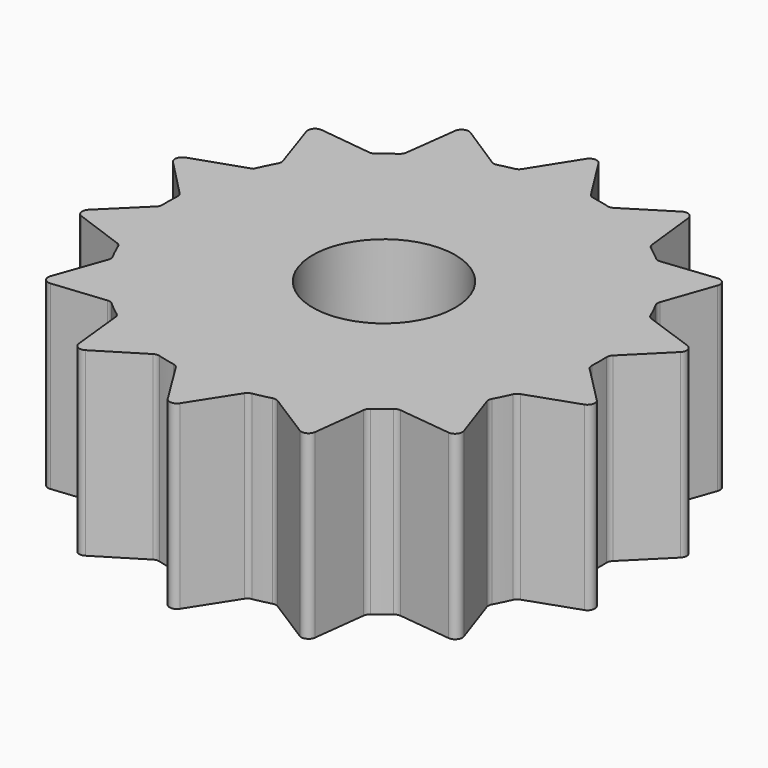
from build123d import *

# Parameters (mm, degrees)
F0_R     = 1.000001
F1_DEPTH = 2.54
F2_R     = 0.1016


with BuildPart() as f1:
    # F0 (on Top) → F1 (new body)
    with BuildSketch(Plane.XY):
        with BuildLine():
            Line((0, 3.792523), (-0.508, 2.987927))
            ThreePointArc((-0.508, 2.987927), (-0.655986, 2.958962), (-0.802348, 2.922672))
            ThreePointArc((-0.802348, 2.922672), (-1.280873, 2.746841), (-1.723157, 2.493292))
            ThreePointArc((-1.723157, 2.493292), (-1.861136, 2.392059), (-1.993181, 2.2832))
            ThreePointArc((-1.993181, 2.2832), (-2.347676, 1.916818), (-2.635746, 1.496202))
            ThreePointArc((-2.635746, 1.496202), (-2.715992, 1.34505), (-2.78758, 1.189611))
            ThreePointArc((-2.78758, 1.189611), (-2.947537, 0.705549), (-3.024097, 0.201524))
            ThreePointArc((-3.024097, 0.201524), (-3.030651, 0.030517), (-3.027542, -0.140587))
            ThreePointArc((-3.027542, -0.140587), (-2.961147, -0.646051), (-2.81097, -1.133236))
            ThreePointArc((-2.81097, -1.133236), (-2.742527, -1.290085), (-2.66534, -1.442822))
            ThreePointArc((-2.66534, -1.442822), (-2.385799, -1.869154), (-2.038754, -2.2426))
            ThreePointArc((-2.038754, -2.2426), (-1.908928, -2.354096), (-1.773015, -2.458087))
            ThreePointArc((-1.773015, -2.458087), (-1.335927, -2.720491), (-0.86104, -2.905922))
            ThreePointArc((-0.86104, -2.905922), (-0.695652, -2.949889), (-0.528046, -2.98445))
            ThreePointArc((-0.528046, -2.98445), (-0.020345, -3.030736), (0.487931, -2.99127))
            ThreePointArc((0.487931, -2.99127), (0.655986, -2.958962), (0.821949, -2.91722))
            ThreePointArc((0.821949, -2.91722), (1.299283, -2.738181), (1.739855, -2.481668))
            ThreePointArc((1.739855, -2.481668), (1.877151, -2.379512), (2.008463, -2.269769))
            ThreePointArc((2.008463, -2.269769), (2.36049, -1.901016), (2.64573, -1.478475))
            ThreePointArc((2.64573, -1.478475), (2.72496, -1.326788), (2.795502, -1.170872))
            ThreePointArc((2.795502, -1.170872), (2.952207, -0.685747), (3.025382, -0.181219))
            ThreePointArc((3.025382, -0.181219), (3.030787, -0.010173), (3.02653, 0.160907))
            ThreePointArc((3.02653, 0.160907), (2.956744, 0.665914), (2.803299, 1.15208))
            ThreePointArc((2.803299, 1.15208), (2.733805, 1.308466), (2.655595, 1.460681))
            ThreePointArc((2.655595, 1.460681), (2.373198, 1.885127), (2.023654, 2.256236))
            ThreePointArc((2.023654, 2.256236), (1.893082, 2.366857), (1.756475, 2.469933))
            ThreePointArc((1.756475, 2.469933), (1.317635, 2.729398), (0.841513, 2.911637))
            ThreePointArc((0.841513, 2.911637), (0.675834, 2.954492), (0.508, 2.987927))
            Line((0.508, 2.987927), (0, 3.792523))
        make_face()
        Circle(F0_R, mode=Mode.SUBTRACT)
        with BuildLine():
            Line((1.64879, 3.415366), (0.841513, 2.911637))
            ThreePointArc((0.841513, 2.911637), (1.317635, 2.729398), (1.756475, 2.469933))
            Line((1.756475, 2.469933), (1.64879, 3.415366))
        make_face()
        with BuildLine():
            ThreePointArc((-1.723157, 2.493292), (-1.280873, 2.746841), (-0.802348, 2.922672))
            Line((-0.802348, 2.922672), (-1.60279, 3.437193))
            Line((-1.60279, 3.437193), (-1.723157, 2.493292))
        make_face()
        with BuildLine():
            ThreePointArc((-2.635746, 1.496202), (-2.347676, 1.916818), (-1.993181, 2.2832))
            Line((-1.993181, 2.2832), (-2.937707, 2.398564))
            Line((-2.937707, 2.398564), (-2.635746, 1.496202))
        make_face()
        with BuildLine():
            ThreePointArc((-3.024097, 0.201524), (-2.947537, 0.705549), (-2.78758, 1.189611))
            Line((-2.78758, 1.189611), (-3.688329, 0.882871))
            Line((-3.688329, 0.882871), (-3.024097, 0.201524))
        make_face()
        with BuildLine():
            ThreePointArc((-2.81097, -1.133236), (-2.961147, -0.646051), (-3.027542, -0.140587))
            Line((-3.027542, -0.140587), (-3.705359, -0.80842))
            Line((-3.705359, -0.80842), (-2.81097, -1.133236))
        make_face()
        with BuildLine():
            ThreePointArc((-2.038754, -2.2426), (-2.385799, -1.869154), (-2.66534, -1.442822))
            Line((-2.66534, -1.442822), (-2.985412, -2.338921))
            Line((-2.985412, -2.338921), (-2.038754, -2.2426))
        make_face()
        with BuildLine():
            ThreePointArc((-0.86104, -2.905922), (-1.335927, -2.720491), (-1.773015, -2.458087))
            Line((-1.773015, -2.458087), (-1.67168, -3.404221))
            Line((-1.67168, -3.404221), (-0.86104, -2.905922))
        make_face()
        with BuildLine():
            ThreePointArc((0.487931, -2.99127), (-0.020345, -3.030736), (-0.528046, -2.98445))
            Line((-0.528046, -2.98445), (-0.025458, -3.792438))
            Line((-0.025458, -3.792438), (0.487931, -2.99127))
        make_face()
        with BuildLine():
            Line((1.625826, -3.426357), (1.739855, -2.481668))
            ThreePointArc((1.739855, -2.481668), (1.299283, -2.738181), (0.821949, -2.91722))
            Line((0.821949, -2.91722), (1.625826, -3.426357))
        make_face()
        with BuildLine():
            Line((2.953742, -2.37879), (2.64573, -1.478475))
            ThreePointArc((2.64573, -1.478475), (2.36049, -1.901016), (2.008463, -2.269769))
            Line((2.008463, -2.269769), (2.953742, -2.37879))
        make_face()
        with BuildLine():
            Line((3.694172, -0.858093), (3.025382, -0.181219))
            ThreePointArc((3.025382, -0.181219), (2.952207, -0.685747), (2.795502, -1.170872))
            Line((2.795502, -1.170872), (3.694172, -0.858093))
        make_face()
        with BuildLine():
            Line((3.699849, 0.833275), (2.803299, 1.15208))
            ThreePointArc((2.803299, 1.15208), (2.956744, 0.665914), (3.02653, 0.160907))
            Line((3.02653, 0.160907), (3.699849, 0.833275))
        make_face()
        with BuildLine():
            Line((2.969644, 2.358908), (2.023654, 2.256236))
            ThreePointArc((2.023654, 2.256236), (2.373198, 1.885127), (2.655595, 1.460681))
            Line((2.655595, 1.460681), (2.969644, 2.358908))
        make_face()
    extrude(amount=F1_DEPTH)

    # F2
    f2_edges = [f1.edges().sort_by_distance(p)[0] for p in [
        (0, 3.792523, 1.27),
        (-1.60279, 3.437193, 1.27),
        (-2.937707, 2.398564, 1.27),
        (-3.688329, 0.882871, 1.27),
        (-3.705359, -0.80842, 1.27),
        (-2.985412, -2.338921, 1.27),
        (-1.67168, -3.404221, 1.27),
        (-0.025458, -3.792438, 1.27),
        (1.625826, -3.426357, 1.27),
        (2.953742, -2.37879, 1.27),
        (3.694172, -0.858093, 1.27),
        (3.699849, 0.833275, 1.27),
        (2.969644, 2.358908, 1.27),
        (1.64879, 3.415366, 1.27),
        (0.508, 2.987927, 1.27),
        (0.841513, 2.911637, 1.27),
        (1.756475, 2.469933, 1.27),
        (2.023654, 2.256236, 1.27),
        (2.655595, 1.460681, 1.27),
        (2.803299, 1.15208, 1.27),
        (3.02653, 0.160907, 1.27),
        (3.025382, -0.181219, 1.27),
        (2.795502, -1.170872, 1.27),
        (2.64573, -1.478475, 1.27),
        (2.008463, -2.269769, 1.27),
        (1.739855, -2.481668, 1.27),
        (0.821949, -2.91722, 1.27),
        (0.487931, -2.99127, 1.27),
        (-0.528046, -2.98445, 1.27),
        (-0.86104, -2.905922, 1.27),
        (-1.773015, -2.458087, 1.27),
        (-2.038754, -2.2426, 1.27),
        (-2.66534, -1.442822, 1.27),
        (-2.81097, -1.133236, 1.27),
        (-3.027542, -0.140587, 1.27),
        (-3.024097, 0.201524, 1.27),
        (-2.635746, 1.496202, 1.27),
        (-1.723157, 2.493292, 1.27),
        (-1.993181, 2.2832, 1.27),
        (-0.802348, 2.922672, 1.27),
        (-0.508, 2.987927, 1.27),
    ]]
    fillet(f2_edges, radius=F2_R)


solid = f1.part
